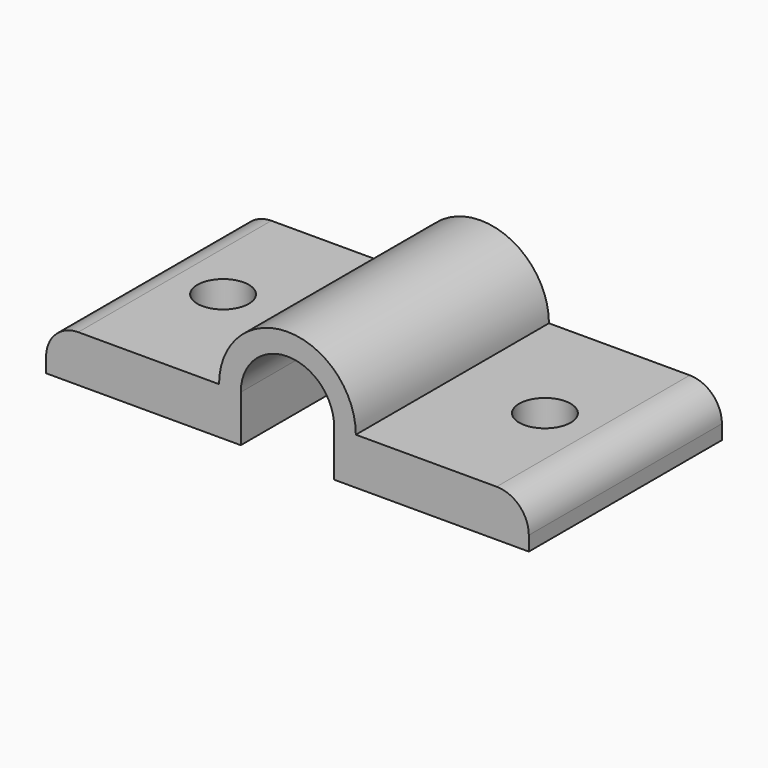
from build123d import *

# Parameters (mm, degrees)
F1_DEPTH = 15
F2_R     = 1.6
F3_DEPTH = 2.901
F4_R     = 2


with BuildPart() as f1:
    # F0 (on Front) → F1 (new body)
    with BuildSketch(Plane.XZ):
        with BuildLine():
            Line((-15, 2.9), (-15, 0))
            Line((-15, 0), (-2.9, 0))
            Line((-2.9, 0), (-2.9, 2.9))
            ThreePointArc((-2.9, 2.9), (0, 5.8), (2.9, 2.9))
            Line((2.9, 2.9), (2.9, 0))
            Line((2.9, 0), (15, 0))
            Line((15, 0), (15, 2.9))
            Line((15, 2.9), (4.25, 2.9))
            ThreePointArc((4.25, 2.9), (0, 7.15), (-4.25, 2.9))
            Line((-4.25, 2.9), (-15, 2.9))
        make_face()
    extrude(amount=-F1_DEPTH)

    # F2 (on face) → F3 (cut, through all)
    with BuildSketch(Plane.XY.offset(2.9)):
        with Locations((-10, 7.5)):
            Circle(F2_R)
        with Locations((10, 7.5)):
            Circle(F2_R)
    extrude(amount=-F3_DEPTH, mode=Mode.SUBTRACT)

    # F4
    f4_edges = [f1.edges().sort_by_distance(p)[0] for p in [
        (-15, 7.5, 2.9),
        (15, 7.5, 2.9),
    ]]
    fillet(f4_edges, radius=F4_R)


solid = f1.part
